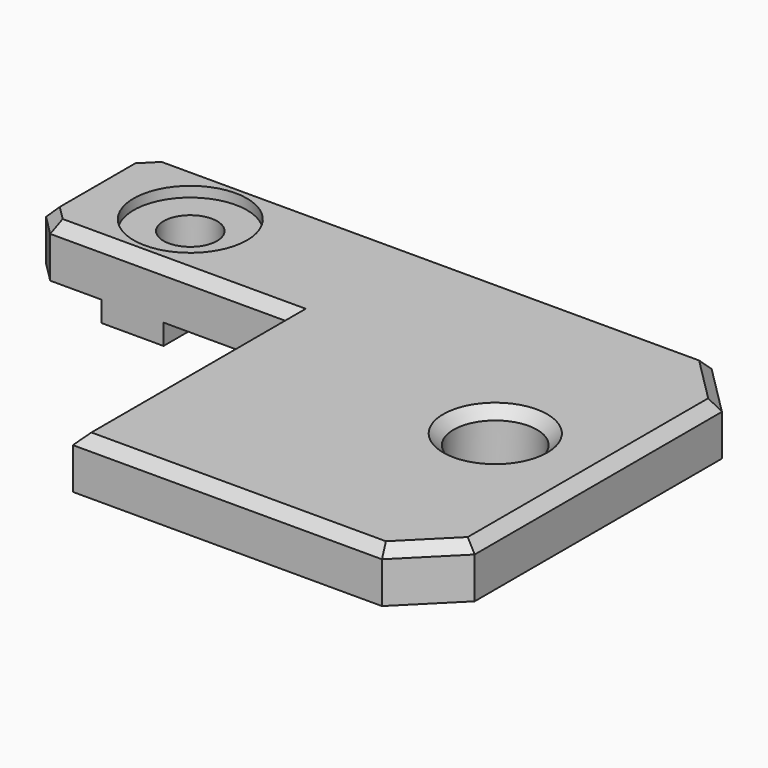
from build123d import *

# Parameters (mm, degrees)
BOX026_W           = 6
BOX026_H           = 4
BOX026_DEPTH       = 3
BOX025_W           = 6
BOX025_H           = 4
BOX025_DEPTH       = 3
CYLINDER029_R      = 2.6
CYLINDER029_DEPTH  = 10
CYLINDER030_R      = 5.5
CYLINDER030_DEPTH  = 3
CYLINDER028_R      = 4.05
CYLINDER028_DEPTH  = 40
BOX020_W           = 25
BOX020_H           = 26
BOX020_DEPTH       = 5
BOX018_W           = 60
BOX018_H           = 40
BOX018_DEPTH       = 5
CHAMFER033014_SIZE = 5
CHAMFER033015_SIZE = 2
CHAMFER033016_SIZE = 1


with BuildPart() as cube026:
    # Box026 → Box026 (new body)
    with BuildSketch(Plane(origin=(-43, 6, 28), x_dir=(1, 0, 0), z_dir=(0, 0, 1))):
        with Locations((3, 2)):
            Rectangle(BOX026_W, BOX026_H)
    extrude(amount=BOX026_DEPTH)


with BuildPart() as cube025:
    # Box025 → Box025 (new body)
    with BuildSketch(Plane(origin=(-43, 16, 28), x_dir=(1, 0, 0), z_dir=(0, 0, 1))):
        with Locations((3, 2)):
            Rectangle(BOX025_W, BOX025_H)
    extrude(amount=BOX025_DEPTH)


with BuildPart() as cylinder024:
    # Cylinder029 → Cylinder029 (new body)
    with BuildSketch(Plane(origin=(-40, 13, 29), x_dir=(1, 0, 0), z_dir=(0, 0, 1))):
        Circle(CYLINDER029_R)
    extrude(amount=CYLINDER029_DEPTH)


with BuildPart() as fusion020008:
    # Cylinder030 → Cylinder030 (new body)
    with BuildSketch(Plane(origin=(-40, 13, 34), x_dir=(1, 0, 0), z_dir=(0, 0, 1))):
        Circle(CYLINDER030_R)
    extrude(amount=CYLINDER030_DEPTH)

    # Fusion020008: union Cylinder024
    add(cylinder024.part)


with BuildPart() as cylinder028:
    # Cylinder028 → Cylinder028 (new body)
    with BuildSketch(Plane.XY.offset(-0.4)):
        Circle(CYLINDER028_R)
    extrude(amount=CYLINDER028_DEPTH)


with BuildPart() as cube020:
    # Box020 → Box020 (new body)
    with BuildSketch(Plane(origin=(-50, -20, 30), x_dir=(1, 0, 0), z_dir=(0, 0, 1))):
        with Locations((12.5, 13)):
            Rectangle(BOX020_W, BOX020_H)
    extrude(amount=BOX020_DEPTH)


with BuildPart() as rod_corner_cap_r1:
    # Box018 → Box018 (new body)
    with BuildSketch(Plane(origin=(-50, -20, 30), x_dir=(1, 0, 0), z_dir=(0, 0, 1))):
        with Locations((30, 20)):
            Rectangle(BOX018_W, BOX018_H)
    extrude(amount=BOX018_DEPTH)

    # Cut015: cut Cube020
    add(cube020.part, mode=Mode.SUBTRACT)

    # Chamfer033014
    chamfer033014_edges = [rod_corner_cap_r1.edges().sort_by_distance(p)[0] for p in [
        (10, 20, 32.5),
        (10, -20, 32.5),
    ]]
    chamfer(chamfer033014_edges, length=CHAMFER033014_SIZE)

    # Cut016: cut Cylinder028
    add(cylinder028.part, mode=Mode.SUBTRACT)

    # Chamfer033015
    chamfer033015_edges = [rod_corner_cap_r1.edges().sort_by_distance(p)[0] for p in [
        (-50, 20, 32.5),
        (-50, 6, 32.5),
    ]]
    chamfer(chamfer033015_edges, length=CHAMFER033015_SIZE)

    # Cut017: cut Fusion020008
    add(fusion020008.part, mode=Mode.SUBTRACT)

    # Chamfer033016
    chamfer033016_edges = [rod_corner_cap_r1.edges().sort_by_distance(p)[0] for p in [
        (-21.5, 20, 35),
        (-49, 19, 35),
        (7.5, 17.5, 35),
        (-50, 13, 35),
        (10, 0, 35),
        (-49, 7, 35),
        (7.5, -17.5, 35),
        (-36.5, 6, 35),
        (-10, -20, 35),
        (-25, -7, 35),
        (-4.05, 0, 35),
    ]]
    chamfer(chamfer033016_edges, length=CHAMFER033016_SIZE)

    # Fusion020006005: union Cube026, Cube025
    add(cube026.part)
    add(cube025.part)


solid = rod_corner_cap_r1.part
